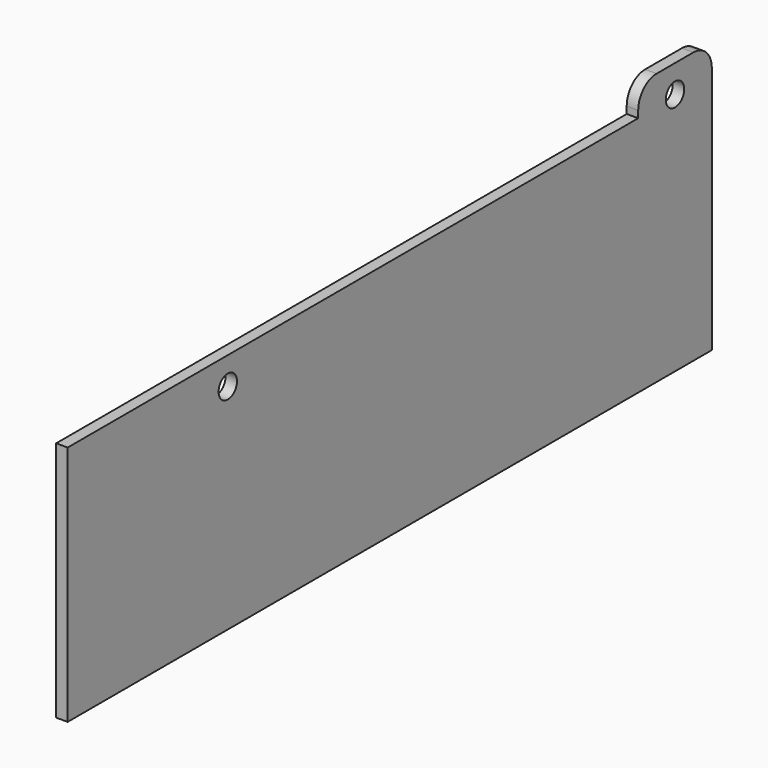
from build123d import *

# Parameters (mm, degrees)
F0_R     = 5
F1_DEPTH = 5


with BuildPart() as f1:
    # F0 (on Right) → F1 (new body)
    with BuildSketch(Plane.YZ):
        with BuildLine():
            Line((-20, -1), (-330, -1))
            Line((-330, -1), (-330, -106))
            Line((-330, -106), (20, -106))
            Line((20, -106), (20, 2))
            ThreePointArc((20, 2), (17.071068, 9.071068), (10, 12))
            Line((10, 12), (-10, 12))
            ThreePointArc((-10, 12), (-17.071068, 9.071068), (-20, 2))
            Line((-20, 2), (-20, -1))
        make_face()
        with Locations((-243, -13)):
            Circle(F0_R, mode=Mode.SUBTRACT)
        Circle(F0_R, mode=Mode.SUBTRACT)
        with BuildLine():
            Line((-20, -1), (-330, -1))
            Line((-330, -1), (-330, -106))
            Line((-330, -106), (20, -106))
            Line((20, -106), (20, 2))
            ThreePointArc((20, 2), (17.071068, 9.071068), (10, 12))
            Line((10, 12), (-10, 12))
            ThreePointArc((-10, 12), (-17.071068, 9.071068), (-20, 2))
            Line((-20, 2), (-20, -1))
        make_face()
        with Locations((-243, -13)):
            Circle(F0_R, mode=Mode.SUBTRACT)
        Circle(F0_R, mode=Mode.SUBTRACT)
    extrude(amount=F1_DEPTH)


solid = f1.part
